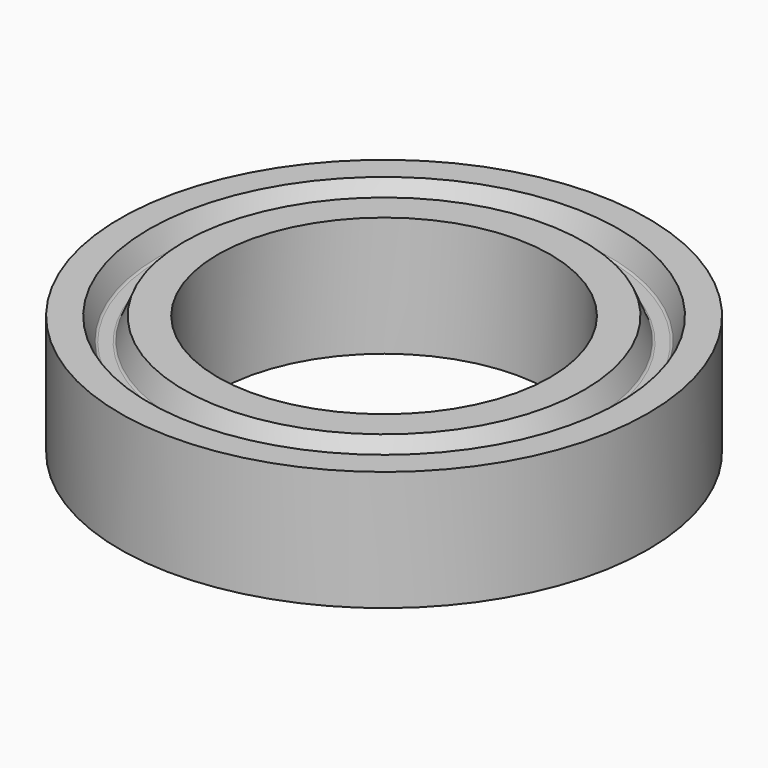
from build123d import *

# Parameters (mm, degrees)
F0_R     = 90.5
F0_R_2   = 57
F1_DEPTH = 41.1


with BuildPart() as f1:
    # F0 (on Top) → F1 (new body)
    with BuildSketch(Plane.XY):
        with Locations((117.5, 0)):
            Circle(F0_R)
        with Locations((117.5, 0)):
            Circle(F0_R_2, mode=Mode.SUBTRACT)
    extrude(amount=F1_DEPTH)

    # F2 (on Front) → F3 (revolve, cut)
    with BuildSketch(Plane.XZ):
        with BuildLine():
            Line((45.685055, 33.667415), (48.84, 41.1))
            Line((48.84, 41.1), (36.93, 41.1))
            Line((36.93, 41.1), (40.084945, 33.667415))
            ThreePointArc((40.084945, 33.667415), (40.379799, 33.312891), (40.821349, 33.18))
            Line((40.821349, 33.18), (44.948651, 33.18))
            ThreePointArc((44.948651, 33.18), (45.390201, 33.312891), (45.685055, 33.667415))
        make_face()
        with BuildLine():
            ThreePointArc((45.685055, 7.432585), (45.390201, 7.787109), (44.948651, 7.92))
            Line((44.948651, 7.92), (40.821349, 7.92))
            ThreePointArc((40.821349, 7.92), (40.379799, 7.787109), (40.084945, 7.432585))
            Line((40.084945, 7.432585), (36.93, 0))
            Line((36.93, 0), (48.84, 0))
            Line((48.84, 0), (45.685055, 7.432585))
        make_face()
    revolve(axis=Axis((117.5, 0, 20.55), (0, 0, -1)), mode=Mode.SUBTRACT)


solid = f1.part
